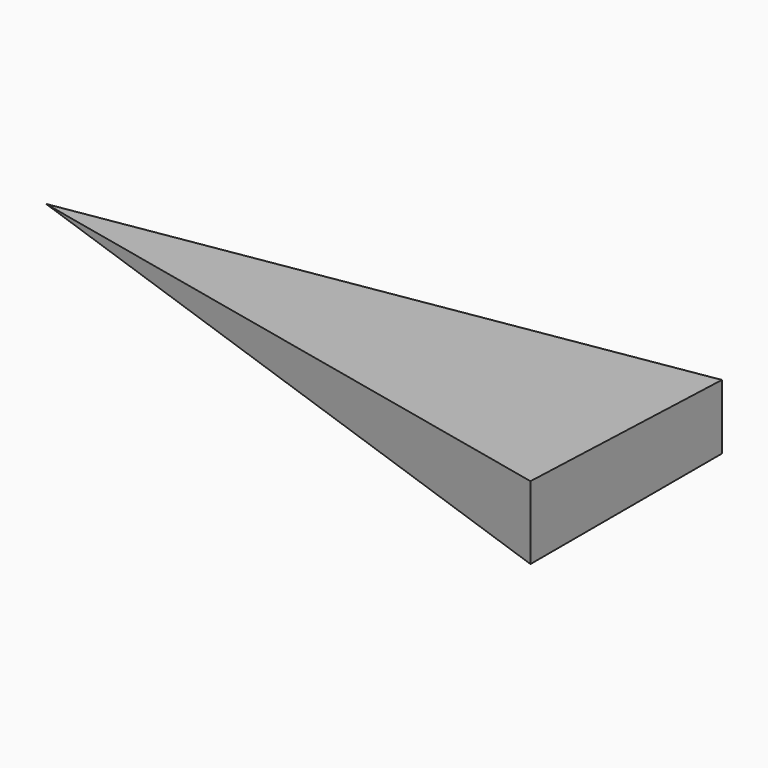
from build123d import *

# Parameters (mm, degrees)
F1_DEPTH = 25.4
F3_DEPTH = 117.094


with BuildPart() as f1:
    # F0 (on Top) → F1 (new body)
    with BuildSketch(Plane.XY):
        Polygon((99.8575910926, 56.3056692481), (-135.3866457939, 56.3056692481), (99.8575910926, -26.9933473319), align=None)
    extrude(amount=F1_DEPTH)

    # F2 (on face) → F3 (cut)
    with BuildSketch(Plane(origin=(2.6322578906, 7.4337432085, 0), x_dir=(0.9426482199, -0.333787857, 0), z_dir=(-0.333787857, -0.9426482199, 0))):
        Polygon((-146.4161293339, 25.4), (-146.4161293339, 0), (103.1406320482, 25.4), align=None)
    extrude(amount=-F3_DEPTH, mode=Mode.SUBTRACT)


solid = f1.part
